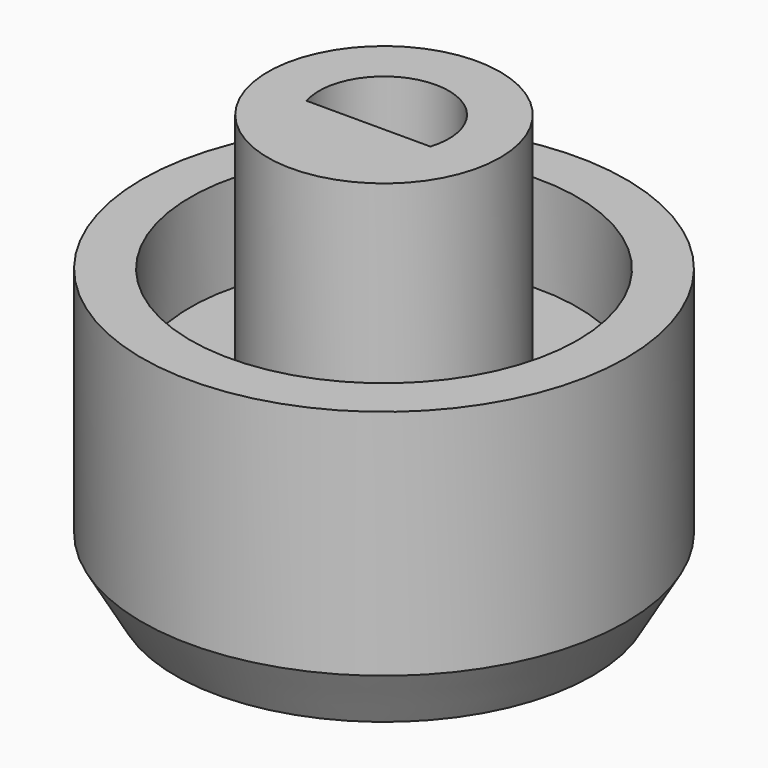
from build123d import *

# Parameters (mm, degrees)
F0_R     = 12.5
F0_R_2   = 10
F1_DEPTH = 15
F0_R_3   = 6
F2_DEPTH = 10
F3_DEPTH = 22
F4_DEPTH = 8.5
F5_SIZE2 = 1.7320508076
F5_SIZE  = 3


with BuildPart() as f1:
    # F0 (on Top) → F1 (new body)
    with BuildSketch(Plane.XY):
        Circle(F0_R)
        Circle(F0_R_2, mode=Mode.SUBTRACT)
    extrude(amount=F1_DEPTH)

    # F0 (on Top) → F2 (join)
    with BuildSketch(Plane.XY):
        Circle(F0_R_2)
        Circle(F0_R_3, mode=Mode.SUBTRACT)
    extrude(amount=F2_DEPTH)

    # F0 (on Top) → F3 (join)
    with BuildSketch(Plane.XY):
        Circle(F0_R_3)
        with BuildLine():
            ThreePointArc((-3.1972644557, -1), (0, 3.35), (3.1972644557, -1))
            Line((3.1972644557, -1), (-3.1972644557, -1))
        make_face(mode=Mode.SUBTRACT)
    extrude(amount=F3_DEPTH)

    # F0 (on Top) → F4 (join)
    with BuildSketch(Plane.XY):
        with BuildLine():
            Line((-3.1972644557, -1), (3.1972644557, -1))
            ThreePointArc((3.1972644557, -1), (0, 3.35), (-3.1972644557, -1))
        make_face()
    extrude(amount=F4_DEPTH)

    # F5
    f5_edges = [f1.edges().sort_by_distance(p)[0] for p in [
        (-12.5, 0, 0),
    ]]
    f5_side = f1.faces().sort_by_distance((-12.5, 0, 7.5))[0]
    chamfer(f5_edges, length=F5_SIZE, length2=F5_SIZE2, reference=f5_side)


solid = f1.part
